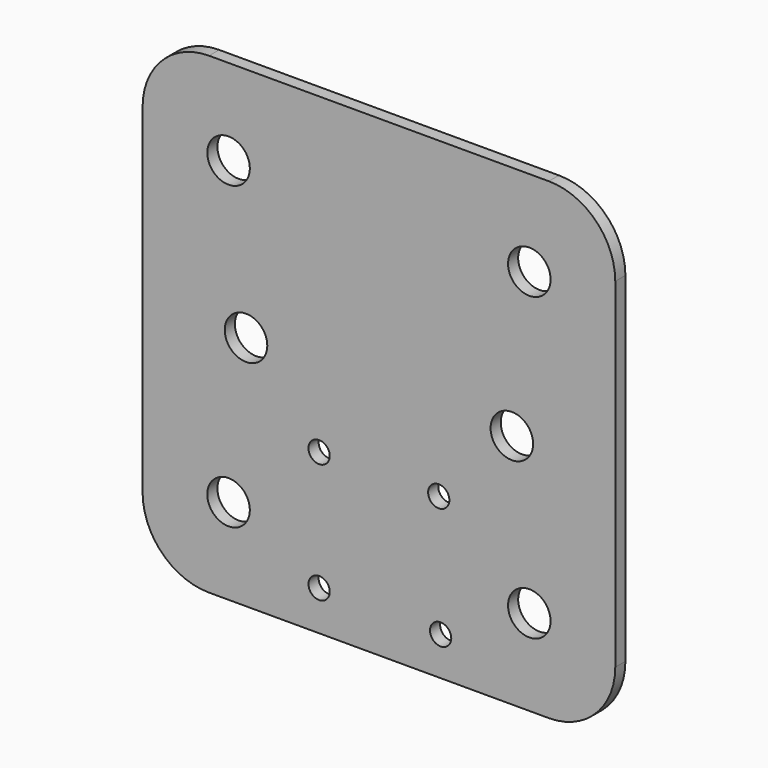
from build123d import *

# Parameters (mm, degrees)
F0_R     = 8
F0_R_2   = 4
F1_DEPTH = 4.763


with BuildPart() as f1:
    # F0 (on Front) → F1 (new body)
    with BuildSketch(Plane.XZ):
        with BuildLine():
            Line((-63.9, -88.9), (63.9, -88.9))
            ThreePointArc((63.9, -88.9), (81.57767, -81.57767), (88.9, -63.9))
            Line((88.9, -63.9), (88.9, 63.9))
            ThreePointArc((88.9, 63.9), (81.57767, 81.57767), (63.9, 88.9))
            Line((63.9, 88.9), (-63.9, 88.9))
            ThreePointArc((-63.9, 88.9), (-81.57767, 81.57767), (-88.9, 63.9))
            Line((-88.9, 63.9), (-88.9, -63.9))
            ThreePointArc((-88.9, -63.9), (-81.57767, -81.57767), (-63.9, -88.9))
        make_face()
        with Locations((-56.568542, -56.568542)):
            Circle(F0_R, mode=Mode.SUBTRACT)
        with Locations((-22.5, -73.9)):
            Circle(F0_R_2, mode=Mode.SUBTRACT)
        with Locations((-22.5, -28.9)):
            Circle(F0_R_2, mode=Mode.SUBTRACT)
        with Locations((23.205951, -74.392498)):
            Circle(F0_R_2, mode=Mode.SUBTRACT)
        with Locations((56.568542, -56.568542)):
            Circle(F0_R, mode=Mode.SUBTRACT)
        with Locations((22.5, -28.9)):
            Circle(F0_R_2, mode=Mode.SUBTRACT)
        with Locations((-50, 0)):
            Circle(F0_R, mode=Mode.SUBTRACT)
        with Locations((-56.568542, 56.568542)):
            Circle(F0_R, mode=Mode.SUBTRACT)
        with Locations((50, 0)):
            Circle(F0_R, mode=Mode.SUBTRACT)
        with Locations((56.568542, 56.568542)):
            Circle(F0_R, mode=Mode.SUBTRACT)
    extrude(amount=F1_DEPTH)


solid = f1.part
